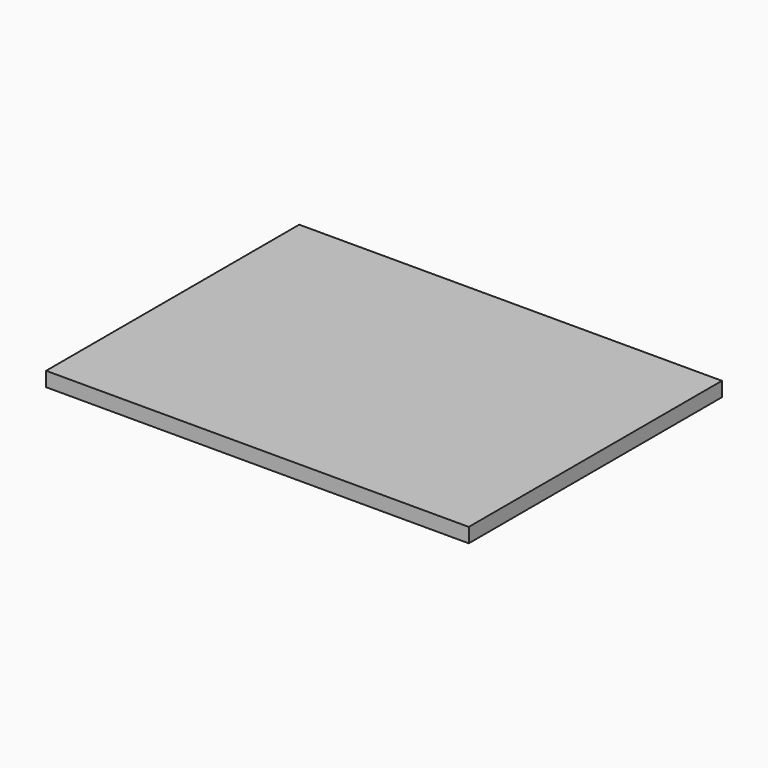
from build123d import *

# Parameters (mm, degrees)
SKETCH_W          = 525
SKETCH_H          = 393
PAD_DEPTH         = 18
SKETCH001_W       = 6.5
SKETCH001_H       = 7
POCKET_DEPTH      = 251.5
POCKET_DEPTH_BACK = -251.5


with BuildPart() as part:
    # Sketch → Pad (new body)
    with BuildSketch(Plane.XY):
        Rectangle(SKETCH_W, SKETCH_H)
    extrude(amount=PAD_DEPTH)

    # Sketch001 → Pocket (cut, two sides)
    with BuildSketch(Plane.YZ) as pocket_sk:
        with Locations((-187.25, 3.5)):
            Rectangle(SKETCH001_W, SKETCH001_H)
    extrude(amount=-POCKET_DEPTH, mode=Mode.SUBTRACT)
    extrude(pocket_sk.sketch, amount=-POCKET_DEPTH_BACK, mode=Mode.SUBTRACT)


solid = part.part
